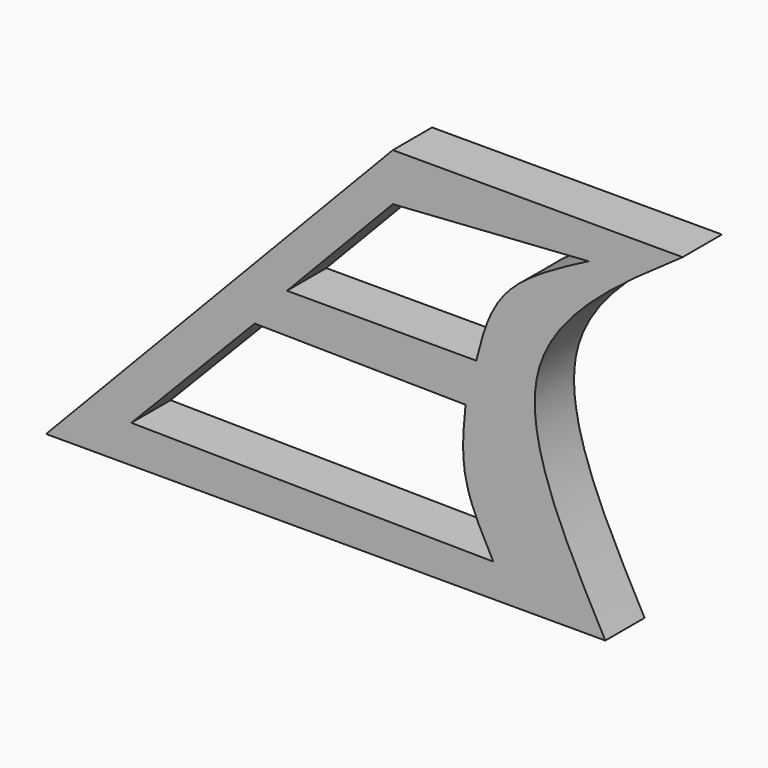
from build123d import *

# Parameters (mm, degrees)
F4_DEPTH = 4.4038286433
F1_DEPTH = 25.4
F3_DEPTH = 25.4


with BuildPart() as f4:
    # F0 (on Front) → F4 (new body)
    with BuildSketch(Plane.XZ):
        with BuildLine():
            Line((31.1220660806, 32.5515791774), (0, 0))
            Line((0, 0), (50.1943454146, 0))
            add(Edge.make_bspline(
                [(57.1354404092, 32.5515791774), (51.2567108227, 28.4945148136), (39.283604536, 20.231564454), (46.5140247255, 6.824346213), (50.1943454146, 0)],
                knots=[0, 0, 0, 0, 0.4909946095, 1, 1, 1, 1], degree=3))
            Line((57.1354404092, 32.5515791774), (31.1220660806, 32.5515791774))
        make_face()
    extrude(amount=F4_DEPTH)

    # F5 (on face) → F1 (cut)
    with BuildSketch(Plane.XZ.offset(4.4038286433)):
        with BuildLine():
            Line((48.6895032227, 29.4836014509), (31.1220660806, 28.2830670476))
            Line((31.1220660806, 28.2830670476), (21.6255090178, 18.3503097448))
            Line((21.6255090178, 18.3503097448), (38.6046469212, 18.3503097448))
            add(Edge.make_bspline(
                [(38.6046469212, 18.3503097448), (39.1462333934, 20.4801539657), (40.329776692, 25.1345605855), (45.7497139994, 27.9542141002), (48.6895032227, 29.4836014509)],
                knots=[0, 0, 0, 0, 0.4575973734, 1, 1, 1, 1], degree=3))
        make_face()
    extrude(amount=-F1_DEPTH, mode=Mode.SUBTRACT)

    # F2 (on face) → F3 (cut)
    with BuildSketch(Plane.XZ.offset(4.4038286433)):
        with BuildLine():
            Line((37.6483798027, 14.5543171093), (18.7260732055, 14.8174436763))
            Line((18.7260732055, 14.8174436763), (7.6506421901, 3.3673320431))
            Line((7.6506421901, 3.3673320431), (40.1368737221, 2.9665562324))
            add(Edge.make_bspline(
                [(40.1368737221, 2.9665562324), (39.0989015719, 4.8818670377), (37.0677097284, 8.6299096625), (37.4576869265, 12.6087358362), (37.6483798027, 14.5543171093)],
                knots=[0, 0, 0, 0, 0.5110162974, 1, 1, 1, 1], degree=3))
        make_face()
    extrude(amount=-F3_DEPTH, mode=Mode.SUBTRACT)


solid = f4.part
